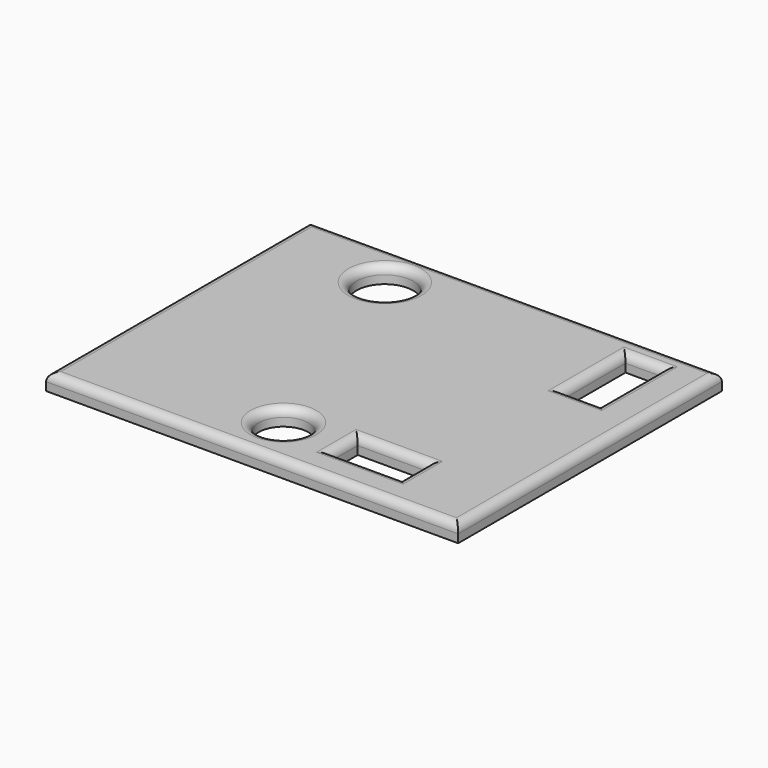
from build123d import *

# Parameters (mm, degrees)
F0_W     = 50
F0_H     = 40
F0_R     = 3
F0_W_2   = 8.5
F0_H_2   = 4
F0_R_2   = 3.425
F0_W_3   = 4.5
F0_H_3   = 9.5
F1_DEPTH = 2
F2_R     = 1


with BuildPart() as f1:
    # F0 (on Top) → F1 (new body)
    with BuildSketch(Plane.XY):
        with Locations((11.034863, 15.014281)):
            Rectangle(F0_W, F0_H)
        with Locations((10.034863, 1.014281)):
            Circle(F0_R, mode=Mode.SUBTRACT)
        with Locations((21.534863, 1.214281)):
            Rectangle(F0_W_2, F0_H_2, mode=Mode.SUBTRACT)
        with Locations((-0.465137, 29.514281)):
            Circle(F0_R_2, mode=Mode.SUBTRACT)
        with Locations((28.784863, 27.514281)):
            Rectangle(F0_W_3, F0_H_3, mode=Mode.SUBTRACT)
    extrude(amount=F1_DEPTH)

    # F2
    f2_edges = [f1.edges().sort_by_distance(p)[0] for p in [
        (31.034863, 27.514281, 2),
        (28.784863, 22.764281, 2),
        (26.534863, 27.514281, 2),
        (28.784863, 32.264281, 2),
        (17.284863, 1.214281, 2),
        (21.534863, -0.785719, 2),
        (25.784863, 1.214281, 2),
        (21.534863, 3.214281, 2),
        (7.034863, 1.014281, 2),
        (-3.890137, 29.514281, 2),
        (11.034863, 35.014281, 2),
        (-13.965137, 15.014281, 2),
        (36.034863, 15.014281, 2),
        (11.034863, -4.985719, 2),
    ]]
    fillet(f2_edges, radius=F2_R)


solid = f1.part
